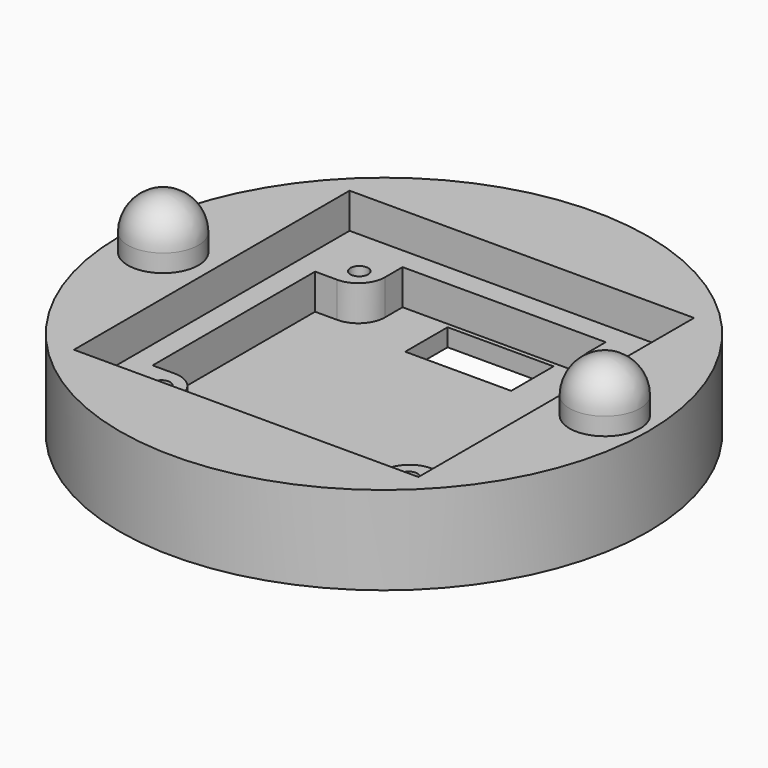
from build123d import *

# Parameters (mm, degrees)
CYLINDER003_R             = 1
CYLINDER003_DEPTH         = 5
CYLINDER001_R             = 1
CYLINDER001_DEPTH         = 5
CYLINDER002_R             = 1
CYLINDER002_DEPTH         = 5
BOX_W                     = 12
BOX_H                     = 6
BOX_DEPTH                 = 2
CYLINDER009_R             = 1.65
CYLINDER009_DEPTH         = 8
CHAMFER_SIZE              = 1.65
CYLINDER010_R             = 1.65
CYLINDER010_DEPTH         = 8
CHAMFER001_SIZE           = 1.65
CYLINDER_R                = 1
CYLINDER_DEPTH            = 5
BOX003_W                  = 34
BOX003_H                  = 34
BOX003_DEPTH              = 8
BOX002_W                  = 39
BOX002_H                  = 39
BOX002_DEPTH              = 4
CYLINDER004_R             = 29.9
CYLINDER004_DEPTH         = 10
CYLINDER006_R             = 4
CYLINDER006_DEPTH         = 6
FILLET004_R               = 4
CYLINDER008_R             = 4
CYLINDER008_DEPTH         = 6
FILLET005_R               = 4
BOX004_W                  = 5.5
BOX004_H                  = 5.5
BOX004_DEPTH              = 4
FILLET002_R               = 3
FILLET002_PLACEMENT_ANGLE = 180
FILLET001_R               = 3
FILLET001_PLACEMENT_ANGLE = 90
FILLET_R                  = 3
FILLET003_R               = 3
FILLET003_PLACEMENT_ANGLE = 90


with BuildPart() as cylinder003:
    # Cylinder003 → Cylinder003 (new body)
    with BuildSketch(Plane(origin=(14, -14, 1), x_dir=(1, 0, 0), z_dir=(0, 0, 1))):
        Circle(CYLINDER003_R)
    extrude(amount=CYLINDER003_DEPTH)


with BuildPart() as cylinder001:
    # Cylinder001 → Cylinder001 (new body)
    with BuildSketch(Plane(origin=(-14, 14, 1), x_dir=(1, 0, 0), z_dir=(0, 0, 1))):
        Circle(CYLINDER001_R)
    extrude(amount=CYLINDER001_DEPTH)


with BuildPart() as cylinder002:
    # Cylinder002 → Cylinder002 (new body)
    with BuildSketch(Plane(origin=(-14, -14, 1), x_dir=(1, 0, 0), z_dir=(0, 0, 1))):
        Circle(CYLINDER002_R)
    extrude(amount=CYLINDER002_DEPTH)


with BuildPart() as obj1:
    # Box → Box (new body)
    with BuildSketch(Plane(origin=(-6, 10.5, 0), x_dir=(1, 0, 0), z_dir=(0, 0, 1))):
        with Locations((6, 3)):
            Rectangle(BOX_W, BOX_H)
    extrude(amount=BOX_DEPTH)


with BuildPart() as chamfer001:
    # Cylinder009 → Cylinder009 (new body)
    with BuildSketch(Plane(origin=(0, -25, 0), x_dir=(1, 0, 0), z_dir=(0, 0, 1))):
        Circle(CYLINDER009_R)
    extrude(amount=CYLINDER009_DEPTH)

    # Chamfer
    chamfer_edges = [chamfer001.edges().sort_by_distance(p)[0] for p in [
        (-1.65, -25, 8),
    ]]
    chamfer(chamfer_edges, length=CHAMFER_SIZE)


with BuildPart() as chamfer002:
    # Cylinder010 → Cylinder010 (new body)
    with BuildSketch(Plane(origin=(0, 25, 0), x_dir=(1, 0, 0), z_dir=(0, 0, 1))):
        Circle(CYLINDER010_R)
    extrude(amount=CYLINDER010_DEPTH)

    # Chamfer001
    chamfer001_edges = [chamfer002.edges().sort_by_distance(p)[0] for p in [
        (-1.65, 25, 8),
    ]]
    chamfer(chamfer001_edges, length=CHAMFER001_SIZE)


with BuildPart() as obj2:
    # Cylinder → Cylinder (new body)
    with BuildSketch(Plane(origin=(14, 14, 1), x_dir=(1, 0, 0), z_dir=(0, 0, 1))):
        Circle(CYLINDER_R)
    extrude(amount=CYLINDER_DEPTH)

    # Fusion: union Cylinder003, Cylinder001, Cylinder002, obj1, Chamfer001, Chamfer002
    add(cylinder003.part)
    add(cylinder001.part)
    add(cylinder002.part)
    add(obj1.part)
    add(chamfer001.part)
    add(chamfer002.part)


with BuildPart() as rahmen_innen:
    # Box003 → Box003 (new body)
    with BuildSketch(Plane(origin=(-17, -17, 2), x_dir=(1, 0, 0), z_dir=(0, 0, 1))):
        with Locations((17, 17)):
            Rectangle(BOX003_W, BOX003_H)
    extrude(amount=BOX003_DEPTH)


with BuildPart() as rahmen_aussen:
    # Box002 → Box002 (new body)
    with BuildSketch(Plane(origin=(-19.5, -19.5, 6), x_dir=(1, 0, 0), z_dir=(0, 0, 1))):
        with Locations((19.5, 19.5)):
            Rectangle(BOX002_W, BOX002_H)
    extrude(amount=BOX002_DEPTH)


with BuildPart() as cut001:
    # Cylinder004 → Cylinder004 (new body)
    with BuildSketch(Plane.XY):
        Circle(CYLINDER004_R)
    extrude(amount=CYLINDER004_DEPTH)

    # Cut: cut Rahmen_Aussen
    add(rahmen_aussen.part, mode=Mode.SUBTRACT)

    # Cut001: cut Rahmen_Innen
    add(rahmen_innen.part, mode=Mode.SUBTRACT)


with BuildPart() as fillet004:
    # Cylinder006 → Cylinder006 (new body)
    with BuildSketch(Plane(origin=(-25, 0, 10), x_dir=(1, 0, 0), z_dir=(0, 0, 1))):
        Circle(CYLINDER006_R)
    extrude(amount=CYLINDER006_DEPTH)

    # Fillet004
    fillet004_edges = [fillet004.edges().sort_by_distance(p)[0] for p in [
        (-29, 0, 16),
    ]]
    fillet(fillet004_edges, radius=FILLET004_R)


with BuildPart() as fillet005:
    # Cylinder008 → Cylinder008 (new body)
    with BuildSketch(Plane(origin=(25, 0, 10), x_dir=(1, 0, 0), z_dir=(0, 0, 1))):
        Circle(CYLINDER008_R)
    extrude(amount=CYLINDER008_DEPTH)

    # Fillet005
    fillet005_edges = [fillet005.edges().sort_by_distance(p)[0] for p in [
        (21, 0, 16),
    ]]
    fillet(fillet005_edges, radius=FILLET005_R)


with BuildPart() as obj3:
    # Box004 → Box004 (new body)
    with BuildSketch(Plane(origin=(11.5, 11.5, 2), x_dir=(1, 0, 0), z_dir=(0, 0, 1))):
        with Locations((2.75, 2.75)):
            Rectangle(BOX004_W, BOX004_H)
    extrude(amount=BOX004_DEPTH)


with BuildPart() as fillet002:
    # Fillet002 base: copy of obj3
    add(obj3.part)

    # Fillet002
    fillet002_edges = [fillet002.edges().sort_by_distance(p)[0] for p in [
        (11.5, 11.5, 4),
    ]]
    fillet(fillet002_edges, radius=FILLET002_R)


with BuildPart() as fillet002_1:
    # Fillet002 placement: moved
    add(fillet002.part.rotate(Axis((0, 0, 0), (0, 0, 1)), FILLET002_PLACEMENT_ANGLE))


with BuildPart() as fillet001:
    # Fillet001 base: copy of obj3
    add(obj3.part)

    # Fillet001
    fillet001_edges = [fillet001.edges().sort_by_distance(p)[0] for p in [
        (11.5, 11.5, 4),
    ]]
    fillet(fillet001_edges, radius=FILLET001_R)


with BuildPart() as fillet001_1:
    # Fillet001 placement: moved
    add(fillet001.part.rotate(Axis((0, 0, 0), (0, 0, 1)), FILLET001_PLACEMENT_ANGLE))


with BuildPart() as fillet_body:
    # Fillet base: copy of obj3
    add(obj3.part)

    # Fillet
    fillet_edges = [fillet_body.edges().sort_by_distance(p)[0] for p in [
        (11.5, 11.5, 4),
    ]]
    fillet(fillet_edges, radius=FILLET_R)


with BuildPart() as cut002:
    # Fillet003 base: copy of obj3
    add(obj3.part)

    # Fillet003
    fillet003_edges = [cut002.edges().sort_by_distance(p)[0] for p in [
        (11.5, 11.5, 4),
    ]]
    fillet(fillet003_edges, radius=FILLET003_R)


with BuildPart() as cut002_1:
    # Fillet003 placement: moved
    add(cut002.part.rotate(Axis((0, 0, 0), (0, 0, -1)), FILLET003_PLACEMENT_ANGLE))

    # Fusion001: union Fillet002, Fillet001, Fillet body
    add(fillet002_1.part)
    add(fillet001_1.part)
    add(fillet_body.part)

    # Fusion002: union Cut001, Fillet004, Fillet005
    add(cut001.part)
    add(fillet004.part)
    add(fillet005.part)

    # Cut002: cut obj2
    add(obj2.part, mode=Mode.SUBTRACT)


solid = cut002_1.part
